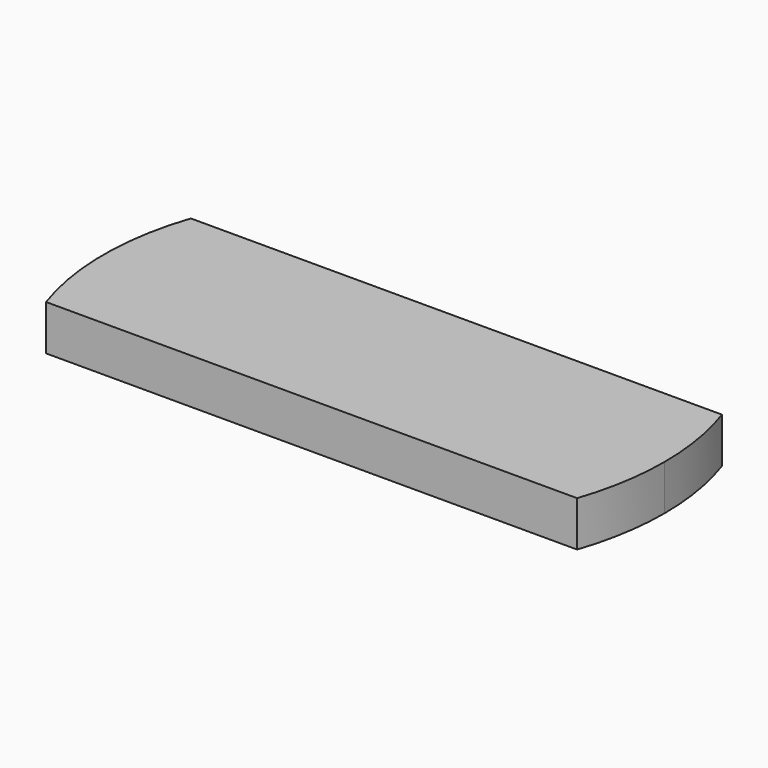
from build123d import *

# Parameters (mm, degrees)
F1_DEPTH = 5


with BuildPart() as f1:
    # F0 (on Top) → F1 (new body)
    with BuildSketch(Plane.XY):
        with BuildLine():
            ThreePointArc((29.342802, -10), (30.582894, -5.068193), (31, 0))
            ThreePointArc((31, 0), (30.582894, 5.068193), (29.342802, 10))
            Line((29.342802, 10), (-29.342802, 10))
            ThreePointArc((-29.342802, 10), (-31, 0), (-29.342802, -10))
            Line((-29.342802, -10), (29.342802, -10))
        make_face()
    extrude(amount=F1_DEPTH)


solid = f1.part
